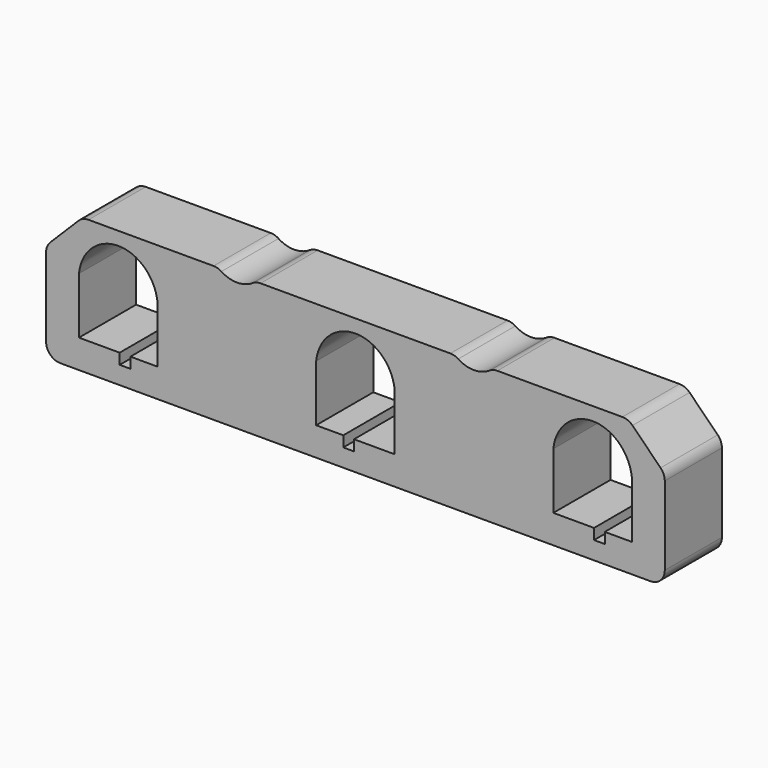
from build123d import *

# Parameters (mm, degrees)
F0_W      = 79.248
F0_H      = 56.769
F1_DEPTH  = 25.4
F2_W      = 2.55016
F2_H      = 56.769
F3_DEPTH  = 25.4
F7_W      = 84.34832
F7_H      = 56.769
F8_DEPTH  = 25.4010001
F10_DEPTH = 25.4010001
F12_DEPTH = 25.4010001
F13_R     = 10.16
F14_R     = 5.08


with BuildPart() as f1:
    # F0 (on Front) → F1 (new body)
    with BuildSketch(Plane.XZ):
        with Locations((-65.9926355079, 23.2293278964)):
            Rectangle(F0_W, F0_H)
        with BuildLine():
            Line((-52.0226355079, 25.0708278964), (-52.0226355079, 5.0048278964))
            Line((-52.0226355079, 5.0048278964), (-66.5006355079, 5.0048278964))
            Line((-66.5006355079, 5.0048278964), (-66.5006355079, 1.1948278964))
            Line((-66.5006355079, 1.1948278964), (-70.3106355079, 1.1948278964))
            Line((-70.3106355079, 1.1948278964), (-70.3106355079, 5.0048278964))
            Line((-70.3106355079, 5.0048278964), (-79.9626355079, 5.0048278964))
            Line((-79.9626355079, 5.0048278964), (-79.9626355079, 25.0708278964))
            add(Edge.make_bspline(
                [(-72.3426355079, 36.6816155863), (-79.143780816, 33.0532444332), (-79.9626355079, 25.0708278964)],
                knots=[0.4689121613, 0.4689121613, 0.4689121613, 1.4631850988, 1.4631850988, 1.4631850988], degree=2, weights=[1, 0.878951812, 1]))
            add(Edge.make_bspline(
                [(-65.9926355079, 38.2788278964), (-69.3487651043, 38.2788278964), (-72.3426355079, 36.6816155863)],
                knots=[0, 0, 0, 0.4689121613, 0.4689121613, 0.4689121613], degree=2, weights=[1, 0.9726408453, 1]))
            add(Edge.make_bspline(
                [(-59.6426355079, 36.6816155863), (-62.6365059115, 38.2788278964), (-65.9926355079, 38.2788278964)],
                knots=[5.8142731459, 5.8142731459, 5.8142731459, 6.2831853072, 6.2831853072, 6.2831853072], degree=2, weights=[1, 0.9726408453, 1]))
            add(Edge.make_bspline(
                [(-52.0226355079, 25.0708278964), (-52.8414901998, 33.0532444332), (-59.6426355079, 36.6816155863)],
                knots=[4.8200002084, 4.8200002084, 4.8200002084, 5.8142731459, 5.8142731459, 5.8142731459], degree=2, weights=[1, 0.878951812, 1]))
        make_face(mode=Mode.SUBTRACT)
    extrude(amount=F1_DEPTH)

    # F2 (on face) → F3 (join, through all)
    with BuildSketch(Plane.XZ.offset(25.4)):
        with Locations((-106.8917155079, 23.2293278964)):
            Rectangle(F2_W, F2_H)
        with Locations((-25.0935555079, 23.2293278964)):
            Rectangle(F2_W, F2_H)
    extrude(amount=-F3_DEPTH)

    # F4: F1 across face


with BuildPart() as f1_1:
    add(f1.part)
    add(f1.part.mirror(Plane(origin=(-108.1667955079, -12.7, 23.2293278964), x_dir=(0, -1, 0), z_dir=(-1, 0, 0))))

    # F5: F1 across face


with BuildPart() as f1_2:
    add(f1_1.part)
    add(f1_1.part.mirror(Plane(origin=(-23.8184755079, -12.7, 23.2293278964), x_dir=(0, 1, 0), z_dir=(1, 0, 0))))

    # F7 (on face) → F8 (cut, through all)
    with BuildSketch(Plane.XZ.offset(25.4)):
        with Locations((102.7040044921, 23.2293278964)):
            Rectangle(F7_W, F7_H)
    extrude(amount=-F8_DEPTH, mode=Mode.SUBTRACT)

    # F9 (on face) → F10 (cut, through all)
    with BuildSketch(Plane.XZ.offset(25.4)):
        Polygon((60.5298444921, -5.1551721036), (60.5298444921, 51.6138278964), (44.0198444921, 51.6138278964), (-176.0051155079, 51.6138278964), (-192.5151155079, 51.6138278964), (-192.5151155079, -5.1551721036), (-176.0051155079, -5.1551721036), (-176.0051155079, 30.0238278964), (-163.0204147545, 43.0085286498), (-133.5769593716, 43.0085286498), (31.0351437387, 43.0085286498), (44.0198444921, 30.0238278964), (44.0198444921, -5.1551721036), align=None)
    extrude(amount=-F10_DEPTH, mode=Mode.SUBTRACT)

    # F11 (on face) → F12 (cut, through all)
    with BuildSketch(Plane.XZ.offset(25.4)):
        Polygon((-30.6416433652, 43.0085286498), (-23.8847362613, 38.2790486498), (-17.1278291575, 43.0085286498), align=None)
        Polygon((-114.8574418583, 43.0085286498), (-108.1005347545, 38.2790486498), (-101.3436276506, 43.0085286498), align=None)
    extrude(amount=-F12_DEPTH, mode=Mode.SUBTRACT)

    # F13
    f13_edges = [f1_2.edges().sort_by_distance(p)[0] for p in [
        (-23.884736, -12.7, 38.279049),
        (-108.100535, -12.7, 38.279049),
    ]]
    fillet(f13_edges, radius=F13_R)

    # F14
    f14_edges = [f1_2.edges().sort_by_distance(p)[0] for p in [
        (-17.127829, -12.7, 43.008529),
        (-30.641643, -12.7, 43.008529),
        (-101.343628, -12.7, 43.008529),
        (-114.857442, -12.7, 43.008529),
        (-163.020415, -12.7, 43.008529),
        (-176.005116, -12.7, 30.023828),
        (31.035144, -12.7, 43.008529),
        (44.019844, -12.7, 30.023828),
        (44.019844, -12.7, -5.155172),
        (-176.005116, -12.7, -5.155172),
    ]]
    fillet(f14_edges, radius=F14_R)


solid = f1_2.part
